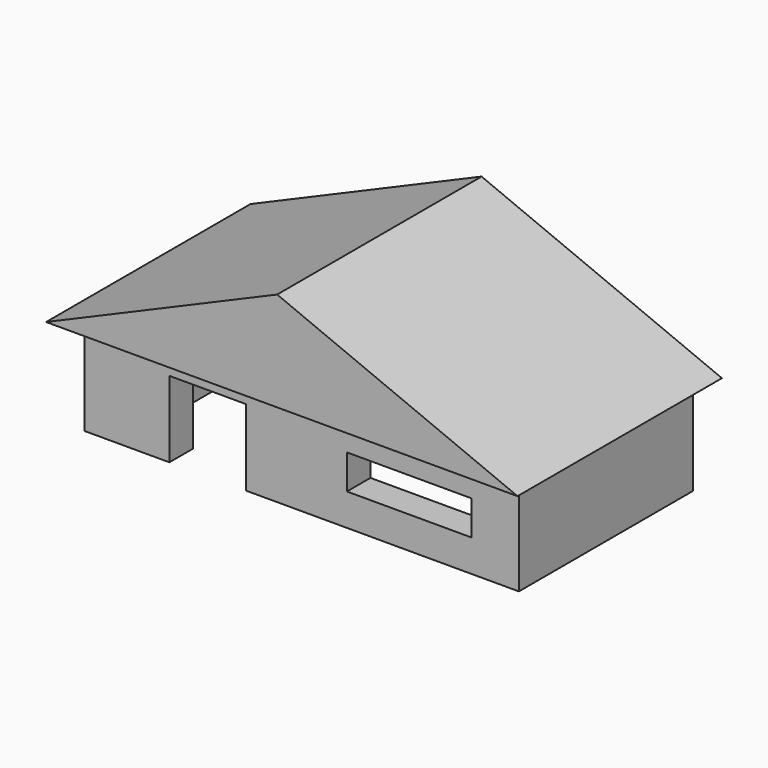
from build123d import *

# Parameters (mm, degrees)
F0_W          = 17.715182
F0_H          = 7.343914
F1_DEPTH      = 25.4
F2_W          = 19.163959
F2_H          = 19.005526
F3_DEPTH      = 7.343914
F4_W          = 25.703696
F4_H          = 10.242827
F5_DEPTH      = 7.343914
F6_W          = 31.09887
F6_H          = 8.596847
F7_DEPTH      = 7.343914
F9_DEPTH      = 33.782
F9_DEPTH_BACK = 29.972


with BuildPart() as f1:
    # F0 (on Top) → F1 (new body)
    with BuildSketch(Plane.XY):
        with Locations((-19.371394, 23.481196)):
            Rectangle(F0_W, F0_H)
        Polygon((-45.126412, -19.809239), (-45.126412, 19.809239), (-28.228985, 19.809239), (-28.228985, 27.153153), (-54.209676, 27.153153), (-54.209676, -27.153153), (54.209676, -27.153153), (54.209676, 27.153153), (-10.513803, 27.153153), (-10.513803, 19.809239), (45.126412, 19.809239), (45.126412, -19.809239), align=None)
    extrude(amount=F1_DEPTH)

    # F2 (on face) → F3 (cut, through all)
    with BuildSketch(Plane.XZ.offset(27.153153)):
        with Locations((-23.425042, 9.502763)):
            Rectangle(F2_W, F2_H)
    extrude(amount=-F3_DEPTH, mode=Mode.SUBTRACT)

    # F4 (on face) → F5 (join, through all)
    with BuildSketch(Plane.XZ.offset(27.153153)):
        with Locations((27.443045, 12.561957)):
            Rectangle(F4_W, F4_H)
    extrude(amount=-F5_DEPTH)

    # F6 (on face) → F7 (cut, through all)
    with BuildSketch(Plane.XZ.offset(27.153153)):
        with Locations((26.846507, 12.30497)):
            Rectangle(F6_W, F6_H)
    extrude(amount=-F7_DEPTH, mode=Mode.SUBTRACT)

    # F8 (on Front) → F9 (join, two sides)
    with BuildSketch(Plane.XZ) as f9_sk:
        Polygon((-0.802159, 50.028846), (-58.465718, 25.240492), (59.17522, 25.240492), align=None)
    extrude(amount=F9_DEPTH)
    extrude(f9_sk.sketch, amount=-F9_DEPTH_BACK)


solid = f1.part
